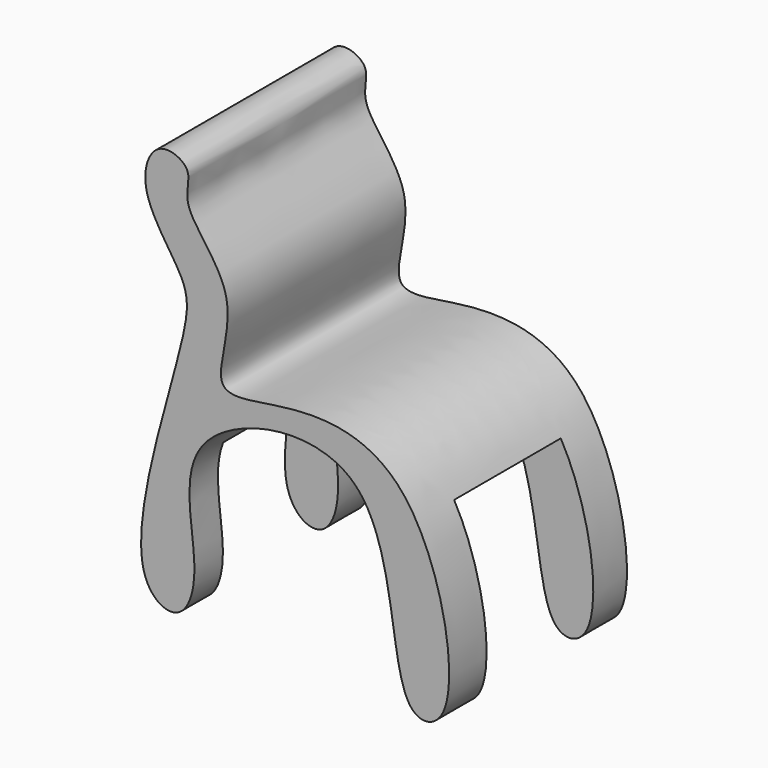
from build123d import *

# Parameters (mm, degrees)
F1_DEPTH = 63.5
F2_W     = 38.085940294
F2_H     = 51.7837191001
F3_DEPTH = 45.974
F4_W     = 41.1571804434
F4_H     = 46.8534380198
F5_DEPTH = 87.122


with BuildPart() as f1:
    # F0 (on Front) → F1 (new body)
    with BuildSketch(Plane.XZ):
        with BuildLine():
            add(Edge.make_bspline(
                [(-44.5056408644, 57.490453124), (-45.6021613226, 59.6862384454), (-53.7341714819, 63.2003569235), (-59.4159632403, 47.799033568), (-44.5756666653, 30.2963511995), (-43.283309447, 16.4618997679), (-65.5981869535, -47.34806982), (-46.0980323883, -58.7284337722), (-39.4418067734, -40.827760914), (-52.0644270083, -4.0370105996), (17.9447061462, 10.323467651), (11.9687692766, -61.012071853), (35.8752795878, -58.8451249946), (24.0528629269, 6.2374596572), (-14.0599263527, 8.8023045458), (-40.6089928953, 1.2379925458), (-26.8522773987, 30.5574949449), (-47.6629024011, 47.4623801088), (-43.3719676301, 55.2202692635), (-44.5056408644, 57.490453124)],
                knots=[0, 0, 0, 0, 0.0343043236, 0.0760264673, 0.1314181437, 0.1789284148, 0.2759804638, 0.3182123585, 0.3634040261, 0.4321586846, 0.5119884479, 0.6009612194, 0.6372012664, 0.7258982728, 0.7981267897, 0.8492962779, 0.9058489689, 0.9645333626, 1, 1, 1, 1], degree=3))
        make_face()
    extrude(amount=F1_DEPTH)

    # F2 (on Right) → F3 (cut)
    with BuildSketch(Plane.YZ):
        with Locations((-31.0739935376, -35.5609650724)):
            Rectangle(F2_W, F2_H)
    extrude(amount=F3_DEPTH, mode=Mode.SUBTRACT)

    # F4 (on Right) → F5 (cut)
    with BuildSketch(Plane.YZ):
        with Locations((-32.7406181023, -37.986535579)):
            Rectangle(F4_W, F4_H)
    extrude(amount=-F5_DEPTH, mode=Mode.SUBTRACT)


solid = f1.part
